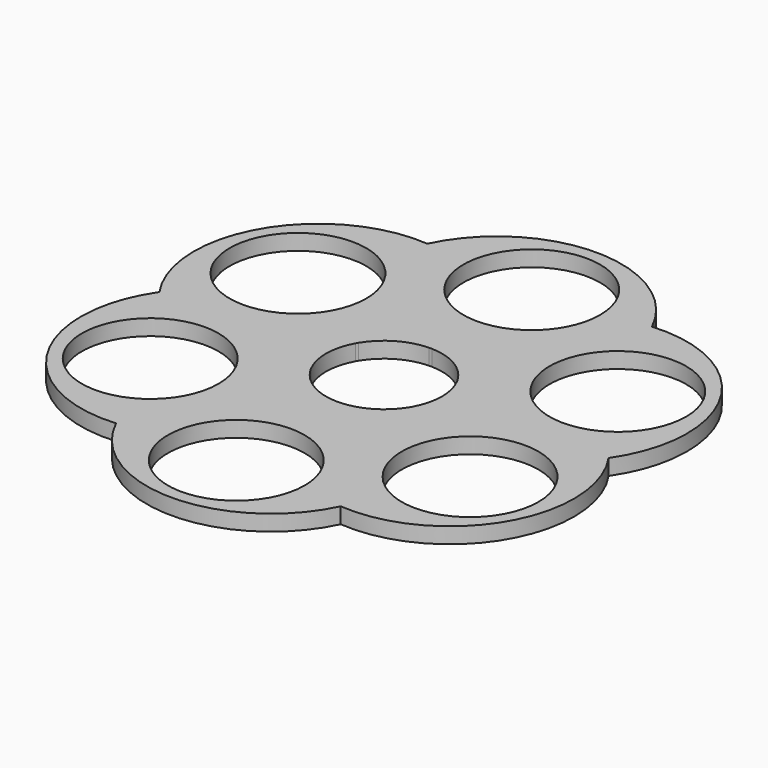
from build123d import *

# Parameters (mm, degrees)
F0_R     = 12.95
F1_DEPTH = 3


with BuildPart() as f1:
    # F0 (on Top) → F1 (new body)
    with BuildSketch(Plane.XY):
        with BuildLine():
            ThreePointArc((42.56921, 0), (43.582425, 25.162325), (21.284605, 36.866017))
            ThreePointArc((21.284605, 36.866017), (0, 50.32465), (-21.284605, 36.866017))
            ThreePointArc((-21.284605, 36.866017), (-43.582425, 25.162325), (-42.56921, 0))
            ThreePointArc((-42.56921, 0), (-43.582425, -25.162325), (-21.284605, -36.866017))
            ThreePointArc((-21.284605, -36.866017), (0, -50.32465), (21.284605, -36.866017))
            ThreePointArc((21.284605, -36.866017), (43.582425, -25.162325), (42.56921, 0))
        make_face()
        with Locations((0, -35)):
            Circle(F0_R, mode=Mode.SUBTRACT)
        with Locations((-30.310889, -17.5)):
            Circle(F0_R, mode=Mode.SUBTRACT)
        with Locations((30.310889, -17.5)):
            Circle(F0_R, mode=Mode.SUBTRACT)
        with Locations((-30.310889, 17.5)):
            Circle(F0_R, mode=Mode.SUBTRACT)
        with BuildLine():
            ThreePointArc((9.393643, 5.72359), (9.526279, 5.5), (9.653595, 5.273338))
            ThreePointArc((9.653595, 5.273338), (11, 0), (9.653595, -5.273338))
            ThreePointArc((9.653595, -5.273338), (9.526279, -5.5), (9.393643, -5.72359))
            ThreePointArc((9.393643, -5.72359), (5.5, -9.526279), (0.259953, -10.996928))
            ThreePointArc((0.259953, -10.996928), (0, -11), (-0.259953, -10.996928))
            ThreePointArc((-0.259953, -10.996928), (-5.5, -9.526279), (-9.393643, -5.72359))
            ThreePointArc((-9.393643, -5.72359), (-9.526279, -5.5), (-9.653595, -5.273338))
            ThreePointArc((-9.653595, -5.273338), (-11, 0), (-9.653595, 5.273338))
            ThreePointArc((-9.653595, 5.273338), (-9.526279, 5.5), (-9.393643, 5.72359))
            ThreePointArc((-9.393643, 5.72359), (-5.5, 9.526279), (-0.259953, 10.996928))
            ThreePointArc((-0.259953, 10.996928), (0, 11), (0.259953, 10.996928))
            ThreePointArc((0.259953, 10.996928), (5.5, 9.526279), (9.393643, 5.72359))
        make_face(mode=Mode.SUBTRACT)
        with Locations((0, 35)):
            Circle(F0_R, mode=Mode.SUBTRACT)
        with Locations((30.310889, 17.5)):
            Circle(F0_R, mode=Mode.SUBTRACT)
    extrude(amount=F1_DEPTH)


solid = f1.part
